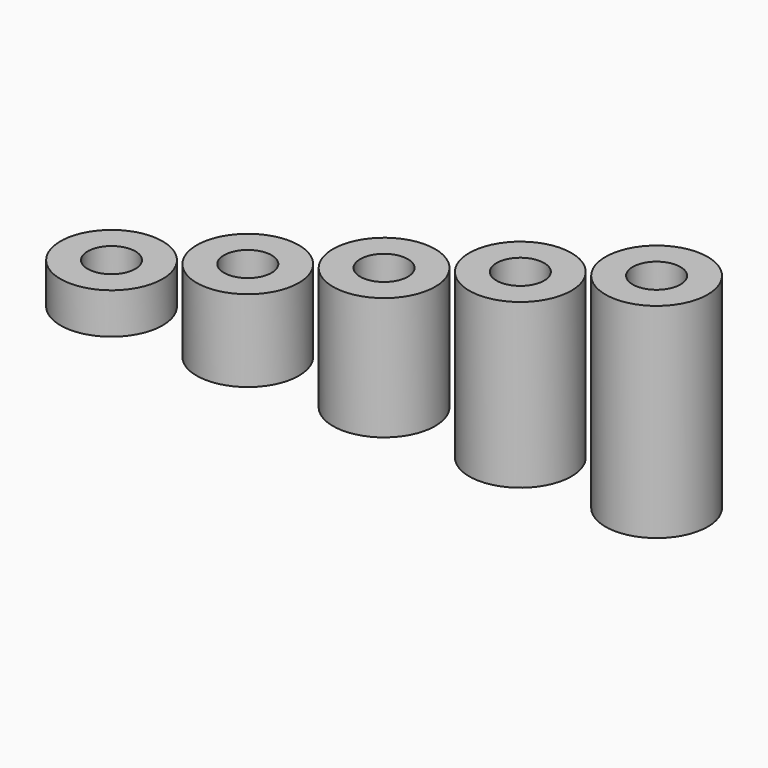
from build123d import *

# Parameters (mm, degrees)
F0_R     = 3.75
F0_R_2   = 1.75
F1_DEPTH = 3
F2_DEPTH = 6
F3_DEPTH = 9
F4_DEPTH = 12
F5_DEPTH = 15


with BuildPart() as f1:
    # F0 (on Top) → F1 (new body)
    with BuildSketch(Plane.XY):
        Circle(F0_R)
        Circle(F0_R_2, mode=Mode.SUBTRACT)
    extrude(amount=F1_DEPTH)


with BuildPart() as f2:
    # F0 (on Top) → F2 (new body)
    with BuildSketch(Plane.XY):
        with Locations((10, 0)):
            Circle(F0_R)
        with Locations((10, 0)):
            Circle(F0_R_2, mode=Mode.SUBTRACT)
    extrude(amount=F2_DEPTH)


with BuildPart() as f3:
    # F0 (on Top) → F3 (new body)
    with BuildSketch(Plane.XY):
        with Locations((20, 0)):
            Circle(F0_R)
        with Locations((20, 0)):
            Circle(F0_R_2, mode=Mode.SUBTRACT)
    extrude(amount=F3_DEPTH)


with BuildPart() as f4:
    # F0 (on Top) → F4 (new body)
    with BuildSketch(Plane.XY):
        with Locations((30, 0)):
            Circle(F0_R)
        with Locations((30, 0)):
            Circle(F0_R_2, mode=Mode.SUBTRACT)
    extrude(amount=F4_DEPTH)


with BuildPart() as f5:
    # F0 (on Top) → F5 (new body)
    with BuildSketch(Plane.XY):
        with Locations((40, 0)):
            Circle(F0_R)
        with Locations((40, 0)):
            Circle(F0_R_2, mode=Mode.SUBTRACT)
    extrude(amount=F5_DEPTH)


solid = Compound([f1.part, f2.part, f3.part, f4.part, f5.part])
